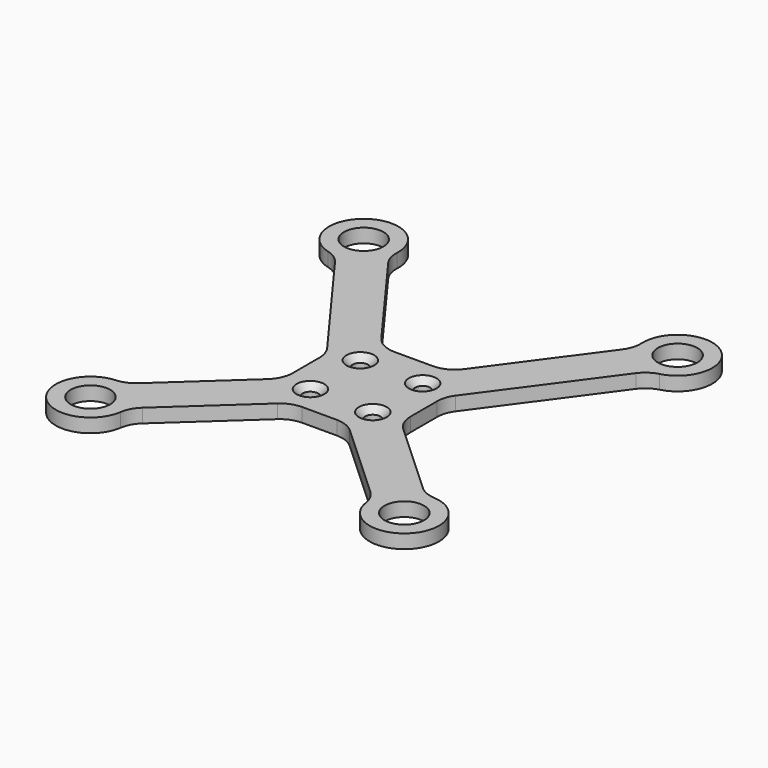
from build123d import *

# Parameters (mm, degrees)
F1_R     = 2.85
F1_R_2   = 1.1
F2_DEPTH = 2
F3_R     = 4
F4_SIZE  = 0.9


with BuildPart() as f2:
    # F1 (on Top) → F2 (new body)
    with BuildSketch(Plane.XY):
        with BuildLine():
            Line((-8.5, -7.576114), (-21.734057, -19.734611))
            ThreePointArc((-21.734057, -19.734611), (-26.331988, -28.032745), (-17.674763, -24.152997))
            Line((-17.674763, -24.152997), (-4.065732, -11.65))
            Line((-4.065732, -11.65), (4.065732, -11.65))
            Line((4.065732, -11.65), (17.674763, -24.152997))
            ThreePointArc((17.674763, -24.152997), (26.331988, -28.032745), (21.734057, -19.734611))
            Line((21.734057, -19.734611), (8.5, -7.576114))
            Line((8.5, -7.576114), (8.5, 0.276202))
            Line((8.5, 0.276202), (22.704322, 19.650295))
            ThreePointArc((22.704322, 19.650295), (25.606365, 28.682357), (17.865493, 23.197934))
            Line((17.865493, 23.197934), (4.780091, 5.35))
            Line((4.780091, 5.35), (-4.780091, 5.35))
            Line((-4.780091, 5.35), (-17.865493, 23.197934))
            ThreePointArc((-17.865493, 23.197934), (-25.606365, 28.682357), (-22.704322, 19.650295))
            Line((-22.704322, 19.650295), (-8.5, 0.276202))
            Line((-8.5, 0.276202), (-8.5, -7.576114))
        make_face()
        with Locations((-22.65, -24.65)):
            Circle(F1_R, mode=Mode.SUBTRACT)
        with Locations((-4.5, -7.65)):
            Circle(F1_R_2, mode=Mode.SUBTRACT)
        with Locations((22.65, -24.65)):
            Circle(F1_R, mode=Mode.SUBTRACT)
        with Locations((4.5, -7.65)):
            Circle(F1_R_2, mode=Mode.SUBTRACT)
        with Locations((-4.5, 1.35)):
            Circle(F1_R_2, mode=Mode.SUBTRACT)
        with Locations((-22.65, 24.65)):
            Circle(F1_R, mode=Mode.SUBTRACT)
        with Locations((4.5, 1.35)):
            Circle(F1_R_2, mode=Mode.SUBTRACT)
        with Locations((22.65, 24.65)):
            Circle(F1_R, mode=Mode.SUBTRACT)
    extrude(amount=F2_DEPTH)

    # F3
    f3_edges = [f2.edges().sort_by_distance(p)[0] for p in [
        (-22.704322, 19.650295, 1),
        (-8.5, 0.276202, 1),
        (-8.5, -7.576114, 1),
        (-21.734057, -19.734611, 1),
        (-17.674763, -24.152997, 1),
        (-4.065732, -11.65, 1),
        (4.065732, -11.65, 1),
        (17.674763, -24.152997, 1),
        (21.734057, -19.734611, 1),
        (8.5, -7.576114, 1),
        (8.5, 0.276202, 1),
        (22.704322, 19.650295, 1),
        (17.865493, 23.197934, 1),
        (4.780091, 5.35, 1),
        (-4.780091, 5.35, 1),
        (-17.865493, 23.197934, 1),
    ]]
    fillet(f3_edges, radius=F3_R)

    # F4
    f4_edges = [f2.edges().sort_by_distance(p)[0] for p in [
        (-5.6, 1.35, 2),
        (3.4, 1.35, 2),
        (3.4, -7.65, 2),
        (-5.6, -7.65, 2),
    ]]
    chamfer(f4_edges, length=F4_SIZE)


solid = f2.part
